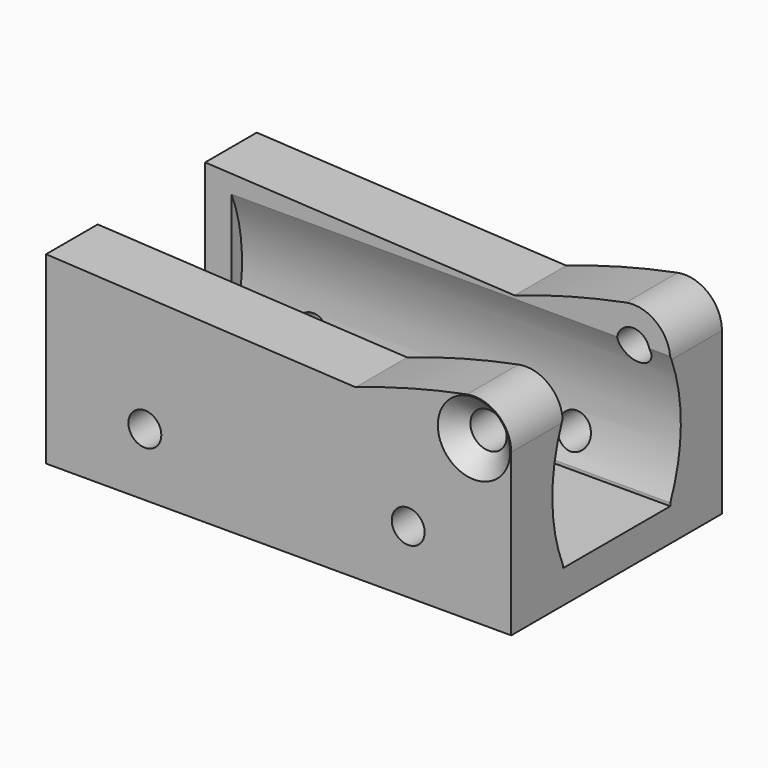
from build123d import *

# Parameters (mm, degrees)
PAD002_DEPTH         = 20
SKETCH016_W          = 20.4
SKETCH016_H          = 70
POCKET006_DEPTH      = 65.001
POCKET006_DEPTH_BACK = 5.651
SKETCH011_R          = 2.5
POCKET003_DEPTH      = 40.001
HOLE001_D            = 5.5
HOLE001_DEPTH        = 20
HOLE001_CSINK_D      = 11
HOLE001_CSINK_ANGLE  = 90
HOLE001_TIPS_R       = 2.75
POCKET005_DEPTH      = 66.651
SKETCH022_R          = 2.5
POCKET011_DEPTH      = 20.001
POCKET011_DEPTH_BACK = 20.001


with BuildPart() as part:
    # Sketch009 → Pad002 (new body, symmetric)
    with BuildSketch(Plane.XZ):
        with BuildLine():
            Line((-18, 1), (-65, 3.5))
            Line((-65, 3.5), (-65, -24.5))
            Line((-65, -24.5), (5.65, -24.5))
            Line((5.65, -24.5), (5.65, 0))
            ThreePointArc((5.65, 0), (3.593093, 4.360296), (-1.079976, 5.545823))
            ThreePointArc((-1.079976, 5.545823), (-9.619729, 3.569716), (-18, 1))
        make_face()
    extrude(amount=PAD002_DEPTH, both=True)

    # Sketch016 → Pocket006 (cut, two sides)
    with BuildSketch(Plane.YZ) as pocket006_sk:
        with Locations((0, 15.5)):
            Rectangle(SKETCH016_W, SKETCH016_H)
    extrude(amount=-POCKET006_DEPTH, mode=Mode.SUBTRACT)
    extrude(pocket006_sk.sketch, amount=POCKET006_DEPTH_BACK, mode=Mode.SUBTRACT)

    # Sketch011 → Pocket003 (cut, through all)
    with BuildSketch(Plane.XZ.offset(20)):
        Circle(SKETCH011_R)
    extrude(amount=-POCKET003_DEPTH, mode=Mode.SUBTRACT)

    # Hole001
    with Locations(Plane.XZ.offset(20)):
        with Locations((0, 0)):
            CounterSinkHole(HOLE001_D / 2, HOLE001_CSINK_D / 2, depth=HOLE001_DEPTH, counter_sink_angle=HOLE001_CSINK_ANGLE)

    # Hole001 tips → Hole001 tip 1 section 0
    with BuildSketch(Plane.XZ, mode=Mode.PRIVATE) as hole001_tip_1_s0:
        Circle(HOLE001_TIPS_R)
    loft([hole001_tip_1_s0.sketch, Vertex(0, 1.652367, 0)], mode=Mode.SUBTRACT)

    # Sketch015 → Pocket005 (cut, through all)
    with BuildSketch(Plane.YZ.offset(-61)):
        with BuildLine():
            ThreePointArc((-10, 1), (-12.197862, -9.25), (-10, -19.5))
            Line((10, -19.5), (-10, -19.5))
            ThreePointArc((10, -19.5), (12.197862, -9.25), (10, 1))
            Line((-10, 1), (10, 1))
        make_face()
    extrude(amount=POCKET005_DEPTH, mode=Mode.SUBTRACT)

    # Sketch022 → Pocket011 (cut, two sides)
    with BuildSketch(Plane.XZ) as pocket011_sk:
        with Locations((-10, -15)):
            Circle(SKETCH022_R)
        with Locations((-50, -15)):
            Circle(SKETCH022_R)
    extrude(amount=-POCKET011_DEPTH, mode=Mode.SUBTRACT)
    extrude(pocket011_sk.sketch, amount=POCKET011_DEPTH_BACK, mode=Mode.SUBTRACT)


solid = part.part
